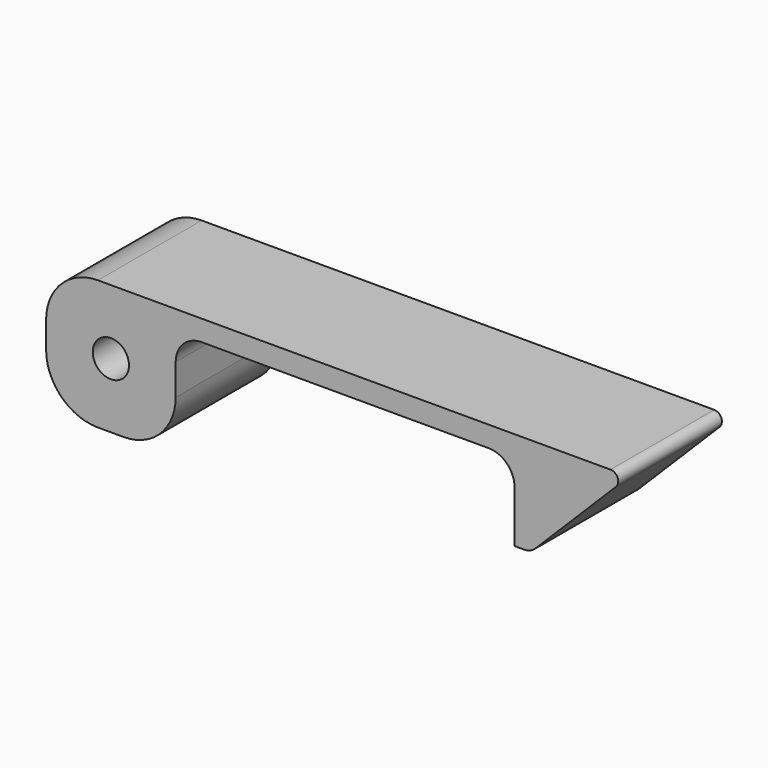
from build123d import *

# Parameters (mm, degrees)
F0_R     = 1.778
F1_DEPTH = 12.7
F2_R     = 1.5875
F3_R     = 0.762
F4_R     = 5.08


with BuildPart() as f1:
    # F0 (on Front) → F1 (new body)
    with BuildSketch(Plane.XZ):
        with BuildLine():
            Line((57.15, 0), (0, 0))
            Line((0, 0), (0, -12.7))
            Line((0, -12.7), (12.7, -12.7))
            Line((12.7, -12.7), (12.7, -4.572))
            ThreePointArc((12.7, -4.572), (13.443949, -2.775949), (15.24, -2.032))
            Line((15.24, -2.032), (43.3705, -2.032))
            ThreePointArc((43.3705, -2.032), (45.166551, -2.775949), (45.9105, -4.572))
            Line((45.9105, -4.572), (45.9105, -9.652))
            Line((45.9105, -9.652), (47.498, -9.652))
            Line((47.498, -9.652), (57.15, 0))
        make_face()
        with Locations((6.35, -6.35)):
            Circle(F0_R, mode=Mode.SUBTRACT)
    extrude(amount=F1_DEPTH)

    # F2
    f2_edges = [f1.edges().sort_by_distance(p)[0] for p in [
        (47.498, -6.35, -9.652),
    ]]
    fillet(f2_edges, radius=F2_R)

    # F3
    f3_edges = [f1.edges().sort_by_distance(p)[0] for p in [
        (57.15, -6.35, 0),
    ]]
    fillet(f3_edges, radius=F3_R)

    # F4
    f4_edges = [f1.edges().sort_by_distance(p)[0] for p in [
        (0, -6.35, -12.7),
        (12.7, -6.35, -12.7),
        (0, -6.35, 0),
    ]]
    fillet(f4_edges, radius=F4_R)


solid = f1.part
